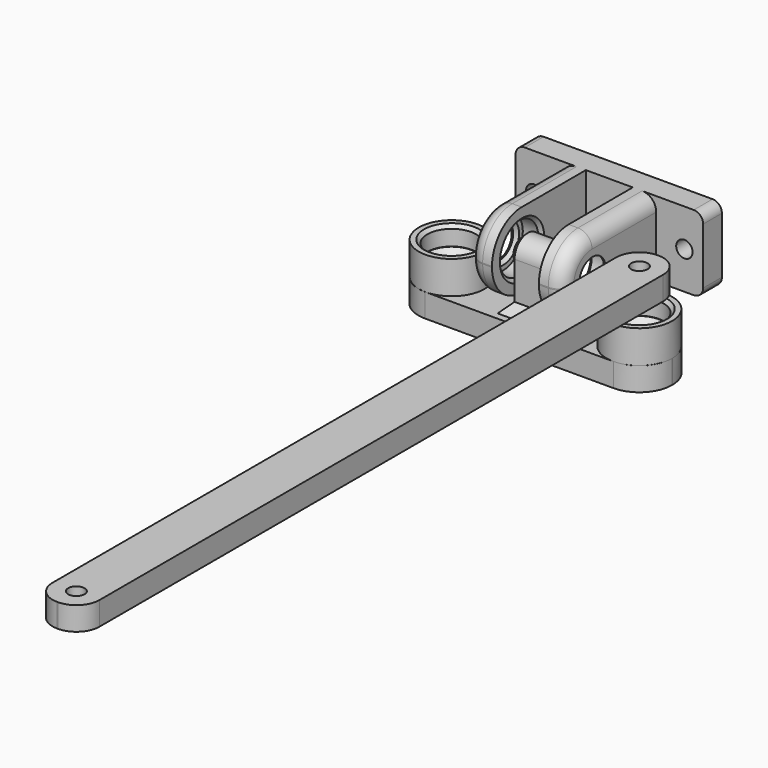
from build123d import *

# Parameters (mm, degrees)
CYLINDER012_R     = 5.2
CYLINDER012_DEPTH = 5
CYLINDER011_R     = 5.2
CYLINDER011_DEPTH = 5
CYLINDER013_R     = 3.5
CYLINDER013_DEPTH = 20
CYLINDER008_R     = 5.2
CYLINDER008_DEPTH = 5
CYLINDER002_R     = 5.2
CYLINDER002_DEPTH = 5
CYLINDER010_R     = 3.5
CYLINDER010_DEPTH = 20
CYLINDER003_R     = 1.75
CYLINDER003_DEPTH = 26
CYLINDER009_R     = 7
CYLINDER009_DEPTH = 7
CYLINDER006_R     = 7
CYLINDER006_DEPTH = 7
BOX001_W          = 7.6
BOX001_H          = 7
BOX001_DEPTH      = 10
CYLINDER005_R     = 3.5
CYLINDER005_DEPTH = 10
CHAMFER_SIZE      = 1.2
BOX002_W          = 54
BOX002_H          = 14
BOX002_DEPTH      = 5
FILLET002_R       = 6.9
CHAMFER001_SIZE   = 1.6
CHAMFER002_SIZE   = 2
CHAMFER003_SIZE   = 0.7
CYLINDER017_R     = 1.75
CYLINDER017_DEPTH = 20
CYLINDER018_R     = 1.75
CYLINDER018_DEPTH = 20
CYLINDER007_R     = 1.75
CYLINDER007_DEPTH = 20
CYLINDER015_R     = 5.2
CYLINDER015_DEPTH = 5
CYLINDER016_R     = 3.5
CYLINDER016_DEPTH = 13
BOX004_W          = 5
BOX004_H          = 25
BOX004_DEPTH      = 16
FILLET003_R       = 7.9
FILLET004_R       = 3
BOX003_W          = 40
BOX003_H          = 5
BOX003_DEPTH      = 16
CYLINDER001_R     = 5.2
CYLINDER001_DEPTH = 5
CYLINDER014_R     = 3.5
CYLINDER014_DEPTH = 13
BOX_W             = 5
BOX_H             = 25
BOX_DEPTH         = 16
FILLET_R          = 7.9
FILLET001_R       = 3
FILLET005_R       = 2
CHAMFER004_SIZE   = 0.7
CHAMFER005_SIZE   = 0.7
CYLINDER019_R     = 1.75
CYLINDER019_DEPTH = 10
CYLINDER020_R     = 1.75
CYLINDER020_DEPTH = 10
CYLINDER021_R     = 3.5
CYLINDER021_DEPTH = 3
CHAMFER006_SIZE   = 1
CYLINDER022_R     = 3.5
CYLINDER022_DEPTH = 2
CHAMFER007_SIZE   = 1
BOX005_W          = 10
BOX005_H          = 160
BOX005_DEPTH      = 5
FILLET006_R       = 4.9


with BuildPart() as cylinder012:
    # Cylinder012 → Cylinder012 (new body)
    with BuildSketch(Plane(origin=(20, 0, -16), x_dir=(1, 0, 0), z_dir=(0, 0, 1))):
        Circle(CYLINDER012_R)
    extrude(amount=CYLINDER012_DEPTH)


with BuildPart() as cylinder011:
    # Cylinder011 → Cylinder011 (new body)
    with BuildSketch(Plane(origin=(20, 0, -7), x_dir=(1, 0, 0), z_dir=(0, 0, 1))):
        Circle(CYLINDER011_R)
    extrude(amount=CYLINDER011_DEPTH)


with BuildPart() as bearing_core001:
    # Cylinder013 → Cylinder013 (new body)
    with BuildSketch(Plane(origin=(20, 0, -20), x_dir=(1, 0, 0), z_dir=(0, 0, 1))):
        Circle(CYLINDER013_R)
    extrude(amount=CYLINDER013_DEPTH)

    # Fusion002: union Cylinder012, Cylinder011
    add(cylinder012.part)
    add(cylinder011.part)


with BuildPart() as part_mirroring001:
    # Part__Mirroring001: instance of bearing-core001
    add(bearing_core001.part.mirror(Plane(origin=(0, 0, 0), x_dir=(0, -1, 0), z_dir=(1, 0, 0))))


with BuildPart() as cylinder008:
    # Cylinder008 → Cylinder008 (new body)
    with BuildSketch(Plane(origin=(20, 0, -16), x_dir=(1, 0, 0), z_dir=(0, 0, 1))):
        Circle(CYLINDER008_R)
    extrude(amount=CYLINDER008_DEPTH)


with BuildPart() as cylinder002:
    # Cylinder002 → Cylinder002 (new body)
    with BuildSketch(Plane(origin=(20, 0, -7), x_dir=(1, 0, 0), z_dir=(0, 0, 1))):
        Circle(CYLINDER002_R)
    extrude(amount=CYLINDER002_DEPTH)


with BuildPart() as bearing_cores:
    # Cylinder010 → Cylinder010 (new body)
    with BuildSketch(Plane(origin=(20, 0, -20), x_dir=(1, 0, 0), z_dir=(0, 0, 1))):
        Circle(CYLINDER010_R)
    extrude(amount=CYLINDER010_DEPTH)

    # Fusion001: union Cylinder008, Cylinder002
    add(cylinder008.part)
    add(cylinder002.part)

    # Fusion003: union Part__Mirroring001
    add(part_mirroring001.part)


with BuildPart() as big_holes:
    # Cylinder003 → Cylinder003 (new body)
    with BuildSketch(Plane(origin=(-13, 0, 0), x_dir=(0, 0, -1), z_dir=(1, 0, 0))):
        Circle(CYLINDER003_R)
    extrude(amount=CYLINDER003_DEPTH)

    # Fusion004: union bearing-cores
    add(bearing_cores.part)


with BuildPart() as cylinder009:
    # Cylinder009 → Cylinder009 (new body)
    with BuildSketch(Plane(origin=(20, 0, -10), x_dir=(1, 0, 0), z_dir=(0, 0, 1))):
        Circle(CYLINDER009_R)
    extrude(amount=CYLINDER009_DEPTH)


with BuildPart() as part_mirroring:
    # Part__Mirroring: instance of Cylinder009
    add(cylinder009.part.mirror(Plane(origin=(0, 0, 0), x_dir=(0, -1, 0), z_dir=(1, 0, 0))))


with BuildPart() as cylinder006:
    # Cylinder006 → Cylinder006 (new body)
    with BuildSketch(Plane(origin=(20, 0, -10), x_dir=(1, 0, 0), z_dir=(0, 0, 1))):
        Circle(CYLINDER006_R)
    extrude(amount=CYLINDER006_DEPTH)


with BuildPart() as cube001:
    # Box001 → Box001 (new body)
    with BuildSketch(Plane(origin=(-3.8, -3.5, -10), x_dir=(1, 0, 0), z_dir=(0, 0, 1))):
        with Locations((3.8, 3.5)):
            Rectangle(BOX001_W, BOX001_H)
    extrude(amount=BOX001_DEPTH)


with BuildPart() as chamfer_body:
    # Cylinder005 → Cylinder005 (new body)
    with BuildSketch(Plane(origin=(-5, 0, 0), x_dir=(0, 0, -1), z_dir=(1, 0, 0))):
        Circle(CYLINDER005_R)
    extrude(amount=CYLINDER005_DEPTH)

    # Chamfer
    chamfer_edges = [chamfer_body.edges().sort_by_distance(p)[0] for p in [
        (5, 0, 3.5),
        (-5, 0, 3.5),
    ]]
    chamfer(chamfer_edges, length=CHAMFER_SIZE)


with BuildPart() as bigrotate:
    # Box002 → Box002 (new body)
    with BuildSketch(Plane(origin=(-27, -7, -15), x_dir=(1, 0, 0), z_dir=(0, 0, 1))):
        with Locations((27, 7)):
            Rectangle(BOX002_W, BOX002_H)
    extrude(amount=BOX002_DEPTH)

    # Fillet002
    fillet002_edges = [bigrotate.edges().sort_by_distance(p)[0] for p in [
        (-27, -7, -12.5),
        (-27, 7, -12.5),
        (27, -7, -12.5),
        (27, 7, -12.5),
    ]]
    fillet(fillet002_edges, radius=FILLET002_R)

    # Fusion: union Part__Mirroring, Cylinder006, Cube001, Chamfer body
    add(part_mirroring.part)
    add(cylinder006.part)
    add(cube001.part)
    add(chamfer_body.part)

    # Cut: cut big-holes
    add(big_holes.part, mode=Mode.SUBTRACT)

    # Chamfer001
    chamfer001_edges = [bigrotate.edges().sort_by_distance(p)[0] for p in [
        (-16.5, 0, -7),
        (-16.5, 0, -11),
        (16.5, 0, -11),
        (16.5, 0, -7),
    ]]
    chamfer(chamfer001_edges, length=CHAMFER001_SIZE)

    # Chamfer002
    chamfer002_edges = [bigrotate.edges().sort_by_distance(p)[0] for p in [
        (-3.8, 0, -10),
        (0, -3.5, -10),
        (3.8, 0, -10),
        (0, 3.5, -10),
    ]]
    chamfer(chamfer002_edges, length=CHAMFER002_SIZE)

    # Chamfer003
    chamfer003_edges = [bigrotate.edges().sort_by_distance(p)[0] for p in [
        (-14.8, 0, -15),
        (14.8, 0, -15),
        (14.8, 0, -3),
        (-14.8, 0, -3),
    ]]
    chamfer(chamfer003_edges, length=CHAMFER003_SIZE)


with BuildPart() as cylinder017:
    # Cylinder017 → Cylinder017 (new body)
    with BuildSketch(Plane(origin=(0, 10, 0), x_dir=(1, 0, 0), z_dir=(0, 1, 0))):
        Circle(CYLINDER017_R)
    extrude(amount=CYLINDER017_DEPTH)


with BuildPart() as cylinder018:
    # Cylinder018 → Cylinder018 (new body)
    with BuildSketch(Plane(origin=(16, 10, 0), x_dir=(1, 0, 0), z_dir=(0, 1, 0))):
        Circle(CYLINDER018_R)
    extrude(amount=CYLINDER018_DEPTH)


with BuildPart() as fusion007:
    # Cylinder007 → Cylinder007 (new body)
    with BuildSketch(Plane(origin=(-16, 10, 0), x_dir=(1, 0, 0), z_dir=(0, 1, 0))):
        Circle(CYLINDER007_R)
    extrude(amount=CYLINDER007_DEPTH)

    # Fusion007: union Cylinder017, Cylinder018
    add(cylinder017.part)
    add(cylinder018.part)


with BuildPart() as cylinder015:
    # Cylinder015 → Cylinder015 (new body)
    with BuildSketch(Plane(origin=(4, 0, 0), x_dir=(0, 0, -1), z_dir=(1, 0, 0))):
        Circle(CYLINDER015_R)
    extrude(amount=CYLINDER015_DEPTH)


with BuildPart() as bearing_hole001:
    # Cylinder016 → Cylinder016 (new body)
    with BuildSketch(Plane(origin=(4, 0, 0), x_dir=(0, 0, -1), z_dir=(1, 0, 0))):
        Circle(CYLINDER016_R)
    extrude(amount=CYLINDER016_DEPTH)

    # Fusion006: union Cylinder015
    add(cylinder015.part)


with BuildPart() as cut002:
    # Box004 → Box004 (new body)
    with BuildSketch(Plane(origin=(5, -8, -8), x_dir=(1, 0, 0), z_dir=(0, 0, 1))):
        with Locations((2.5, 12.5)):
            Rectangle(BOX004_W, BOX004_H)
    extrude(amount=BOX004_DEPTH)

    # Fillet003
    fillet003_edges = [cut002.edges().sort_by_distance(p)[0] for p in [
        (7.5, -8, -8),
        (7.5, -8, 8),
    ]]
    fillet(fillet003_edges, radius=FILLET003_R)

    # Fillet004
    fillet004_edges = [cut002.edges().sort_by_distance(p)[0] for p in [
        (10, -8, 0),
        (10, -5.686144, -5.686144),
        (10, -5.686144, 5.686144),
        (10, 8.45, -8),
        (10, 8.45, 8),
    ]]
    fillet(fillet004_edges, radius=FILLET004_R)

    # Cut002: cut bearing-hole001
    add(bearing_hole001.part, mode=Mode.SUBTRACT)


with BuildPart() as part_mirroring002:
    # Part__Mirroring002: instance of Cut002
    add(cut002.part.mirror(Plane(origin=(0, 0, 0), x_dir=(0, -1, 0), z_dir=(1, 0, 0))))


with BuildPart() as cube003:
    # Box003 → Box003 (new body)
    with BuildSketch(Plane(origin=(-20, 17, -8), x_dir=(1, 0, 0), z_dir=(0, 0, 1))):
        with Locations((20, 2.5)):
            Rectangle(BOX003_W, BOX003_H)
    extrude(amount=BOX003_DEPTH)


with BuildPart() as cylinder001:
    # Cylinder001 → Cylinder001 (new body)
    with BuildSketch(Plane(origin=(4, 0, 0), x_dir=(0, 0, -1), z_dir=(1, 0, 0))):
        Circle(CYLINDER001_R)
    extrude(amount=CYLINDER001_DEPTH)


with BuildPart() as bearing_hole:
    # Cylinder014 → Cylinder014 (new body)
    with BuildSketch(Plane(origin=(4, 0, 0), x_dir=(0, 0, -1), z_dir=(1, 0, 0))):
        Circle(CYLINDER014_R)
    extrude(amount=CYLINDER014_DEPTH)

    # Fusion005: union Cylinder001
    add(cylinder001.part)


with BuildPart() as bracket:
    # Box → Box (new body)
    with BuildSketch(Plane(origin=(5, -8, -8), x_dir=(1, 0, 0), z_dir=(0, 0, 1))):
        with Locations((2.5, 12.5)):
            Rectangle(BOX_W, BOX_H)
    extrude(amount=BOX_DEPTH)

    # Fillet
    fillet_edges = [bracket.edges().sort_by_distance(p)[0] for p in [
        (7.5, -8, -8),
        (7.5, -8, 8),
    ]]
    fillet(fillet_edges, radius=FILLET_R)

    # Fillet001
    fillet001_edges = [bracket.edges().sort_by_distance(p)[0] for p in [
        (10, -8, 0),
        (10, -5.686144, -5.686144),
        (10, -5.686144, 5.686144),
        (10, 8.45, -8),
        (10, 8.45, 8),
    ]]
    fillet(fillet001_edges, radius=FILLET001_R)

    # Cut001: cut bearing-hole
    add(bearing_hole.part, mode=Mode.SUBTRACT)

    # Fusion008: union Part__Mirroring002, Cube003
    add(part_mirroring002.part)
    add(cube003.part)

    # Cut003: cut Fusion007
    add(fusion007.part, mode=Mode.SUBTRACT)

    # Fillet005
    fillet005_edges = [bracket.edges().sort_by_distance(p)[0] for p in [
        (-20, 19.5, 8),
        (-20, 19.5, -8),
        (20, 19.5, 8),
        (20, 19.5, -8),
    ]]
    fillet(fillet005_edges, radius=FILLET005_R)

    # Chamfer004
    chamfer004_edges = [bracket.edges().sort_by_distance(p)[0] for p in [
        (-5, 0, 5.2),
        (5, 0, 5.2),
    ]]
    chamfer(chamfer004_edges, length=CHAMFER004_SIZE)

    # Chamfer005
    chamfer005_edges = [bracket.edges().sort_by_distance(p)[0] for p in [
        (-9, 0, 3.5),
        (9, 0, 3.5),
    ]]
    chamfer(chamfer005_edges, length=CHAMFER005_SIZE)


with BuildPart() as cylinder:
    # Cylinder019 → Cylinder019 (new body)
    with BuildSketch(Plane(origin=(20, 0, -2), x_dir=(1, 0, 0), z_dir=(0, 0, 1))):
        Circle(CYLINDER019_R)
    extrude(amount=CYLINDER019_DEPTH)


with BuildPart() as rod_holes:
    # Cylinder020 → Cylinder020 (new body)
    with BuildSketch(Plane(origin=(20, -150, -2), x_dir=(1, 0, 0), z_dir=(0, 0, 1))):
        Circle(CYLINDER020_R)
    extrude(amount=CYLINDER020_DEPTH)

    # Fusion010: union Cylinder
    add(cylinder.part)


with BuildPart() as chamfer006:
    # Cylinder021 → Cylinder021 (new body)
    with BuildSketch(Plane(origin=(20, 0, -1), x_dir=(1, 0, 0), z_dir=(0, 0, 1))):
        Circle(CYLINDER021_R)
    extrude(amount=CYLINDER021_DEPTH)

    # Chamfer006
    chamfer006_edges = [chamfer006.edges().sort_by_distance(p)[0] for p in [
        (16.5, 0, -1),
    ]]
    chamfer(chamfer006_edges, length=CHAMFER006_SIZE)


with BuildPart() as chamfer007:
    # Cylinder022 → Cylinder022 (new body)
    with BuildSketch(Plane(origin=(20, -150, -1), x_dir=(1, 0, 0), z_dir=(0, 0, 1))):
        Circle(CYLINDER022_R)
    extrude(amount=CYLINDER022_DEPTH)

    # Chamfer007
    chamfer007_edges = [chamfer007.edges().sort_by_distance(p)[0] for p in [
        (16.5, -150, -1),
    ]]
    chamfer(chamfer007_edges, length=CHAMFER007_SIZE)


with BuildPart() as rod:
    # Box005 → Box005 (new body)
    with BuildSketch(Plane(origin=(15, -144, 0), x_dir=(1, 0, 0), z_dir=(0, 0, 1))):
        with Locations((5, 80)):
            Rectangle(BOX005_W, BOX005_H)
    extrude(amount=BOX005_DEPTH)

    # Fillet006
    fillet006_edges = [rod.edges().sort_by_distance(p)[0] for p in [
        (15, -144, 2.5),
        (15, 16, 2.5),
        (25, -144, 2.5),
        (25, 16, 2.5),
    ]]
    fillet(fillet006_edges, radius=FILLET006_R)


with BuildPart() as rod_1:
    # Fillet006 placement: moved
    add(rod.part.moved(Location((0, -11, 0))))

    # Fusion009: union Chamfer006, Chamfer007
    add(chamfer006.part)
    add(chamfer007.part)

    # Cut004: cut rod-holes
    add(rod_holes.part, mode=Mode.SUBTRACT)


solid = Compound([bigrotate.part, bracket.part, rod_1.part])
